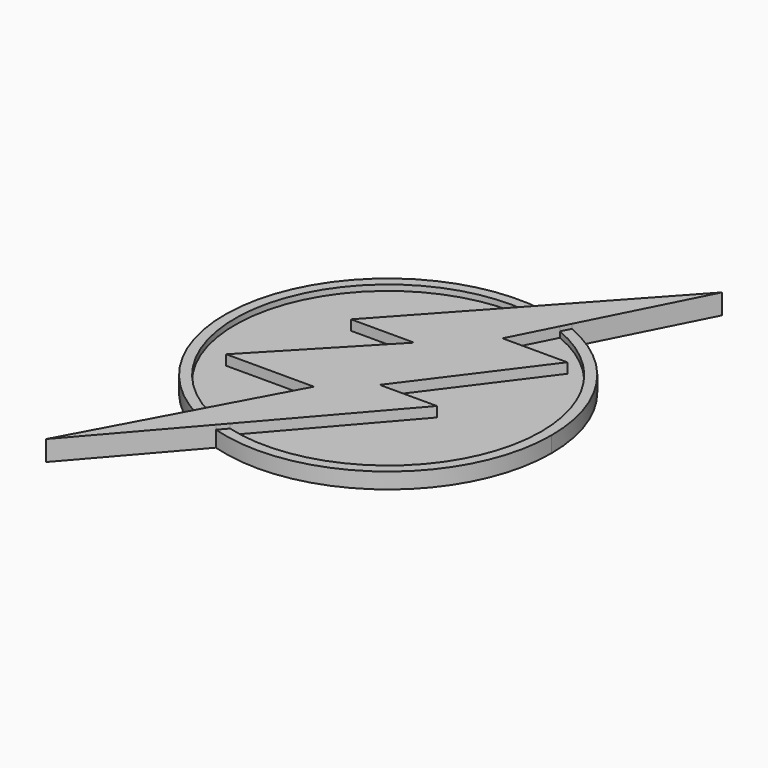
from build123d import *

# Parameters (mm, degrees)
F1_DEPTH = 3.2
F2_DEPTH = 1.6
F3_DEPTH = 2.5


with BuildPart() as f1:
    # F0 (on Top) → F1 (new body)
    with BuildSketch(Plane.XY):
        with BuildLine():
            Line((5.7308066454, 15.4116954654), (9.2615315623, 22.3554545173))
            ThreePointArc((9.2615315623, 22.3554545173), (6.124599836, 23.4100745493), (2.8731075212, 24.026809333))
            Line((2.8731075212, 24.026809333), (-12.0286401361, 7.7058477327))
            Line((-12.0286401361, 7.7058477327), (-2.0674222615, 7.7058477327))
            Line((-2.0674222615, 7.7058477327), (-18.230907619, -9.2094279826))
            Line((-18.230907619, -9.2094279826), (-4.3697794008, -9.2094279826))
            Line((-4.3697794008, -9.2094279826), (-11.0294978873, -21.5381635686))
            ThreePointArc((-11.0294978873, -21.5381635686), (-8.7153894779, -22.573973948), (-6.3056047528, -23.3619704275))
            Line((-6.3056047528, -23.3619704275), (10.7070716166, -3.7589499261))
            Line((10.7070716166, -3.7589499261), (1.6710584512, -3.7589499261))
            Line((1.6710584512, -3.7589499261), (15.9755367786, 15.4116954654))
            Line((15.9755367786, 15.4116954654), (5.7308066454, 15.4116954654))
        make_face()
        with BuildLine():
            Line((-7.468564605, -24.7020021385), (-6.3056047528, -23.3619704275))
            ThreePointArc((-6.3056047528, -23.3619704275), (-8.7153894779, -22.573973948), (-11.0294978873, -21.5381635686))
            Line((-11.0294978873, -21.5381635686), (-11.7940875977, -22.9536024329))
            ThreePointArc((-11.7940875977, -22.9536024329), (-9.6709186664, -23.9257538869), (-7.468564605, -24.7020021385))
        make_face()
        with BuildLine():
            ThreePointArc((2.8731075212, 24.026809333), (6.124599836, 23.4100745493), (9.2615315623, 22.3554545173))
            Line((9.2615315623, 22.3554545173), (9.9925901152, 23.7932030147))
            ThreePointArc((9.9925901152, 23.7932030147), (7.1383273937, 24.799448561), (4.1858882241, 25.464616759))
            Line((4.1858882241, 25.464616759), (2.8731075212, 24.026809333))
        make_face()
        with BuildLine():
            ThreePointArc((4.1858882241, 25.464616759), (7.1383273937, 24.799448561), (9.9925901152, 23.7932030147))
            Line((9.9925901152, 23.7932030147), (19.2086462315, 41.9181135037))
            Line((19.2086462315, 41.9181135037), (4.1858882241, 25.464616759))
        make_face()
        with BuildLine():
            Line((-21.4260146022, -40.7846085727), (-7.468564605, -24.7020021385))
            ThreePointArc((-7.468564605, -24.7020021385), (-9.6709186664, -23.9257538869), (-11.7940875977, -22.9536024329))
            Line((-11.7940875977, -22.9536024329), (-21.4260146022, -40.7846085727))
        make_face()
    extrude(amount=F1_DEPTH)

    # F0 (on Top) → F2 (join)
    with BuildSketch(Plane.XY):
        with BuildLine():
            ThreePointArc((-6.3056047528, -23.3619704275), (14.7132492292, -19.2110023339), (24.1979816008, 0))
            ThreePointArc((24.1979816008, 0), (20.1202967659, 13.4430640706), (9.2615315623, 22.3554545173))
            Line((9.2615315623, 22.3554545173), (5.7308066454, 15.4116954654))
            Line((5.7308066454, 15.4116954654), (15.9755367786, 15.4116954654))
            Line((15.9755367786, 15.4116954654), (1.6710584512, -3.7589499261))
            Line((1.6710584512, -3.7589499261), (10.7070716166, -3.7589499261))
            Line((10.7070716166, -3.7589499261), (-6.3056047528, -23.3619704275))
        make_face()
        with BuildLine():
            Line((-12.0286401361, 7.7058477327), (2.8731075212, 24.026809333))
            ThreePointArc((2.8731075212, 24.026809333), (-23.1446184854, 7.061795007), (-11.0294978873, -21.5381635686))
            Line((-11.0294978873, -21.5381635686), (-4.3697794008, -9.2094279826))
            Line((-4.3697794008, -9.2094279826), (-18.230907619, -9.2094279826))
            Line((-18.230907619, -9.2094279826), (-2.0674222615, 7.7058477327))
            Line((-2.0674222615, 7.7058477327), (-12.0286401361, 7.7058477327))
        make_face()
    extrude(amount=F2_DEPTH)

    # F0 (on Top) → F3 (join)
    with BuildSketch(Plane.XY):
        with BuildLine():
            ThreePointArc((-11.0294978873, -21.5381635686), (-23.1446184854, 7.061795007), (2.8731075212, 24.026809333))
            Line((2.8731075212, 24.026809333), (4.1858882241, 25.464616759))
            ThreePointArc((4.1858882241, 25.464616759), (-24.5061657926, 8.0880285022), (-11.7940875977, -22.9536024329))
            Line((-11.7940875977, -22.9536024329), (-11.0294978873, -21.5381635686))
        make_face()
        with BuildLine():
            ThreePointArc((9.2615315623, 22.3554545173), (20.1202967659, 13.4430640706), (24.1979816008, 0))
            ThreePointArc((24.1979816008, 0), (14.7132492292, -19.2110023339), (-6.3056047528, -23.3619704275))
            Line((-6.3056047528, -23.3619704275), (-7.468564605, -24.7020021385))
            ThreePointArc((-7.468564605, -24.7020021385), (15.3823255436, -20.7208211174), (25.8063629151, 0))
            ThreePointArc((25.8063629151, 0), (21.4923332131, 14.2845363931), (9.9925901152, 23.7932030147))
            Line((9.9925901152, 23.7932030147), (9.2615315623, 22.3554545173))
        make_face()
    extrude(amount=F3_DEPTH)


solid = f1.part
